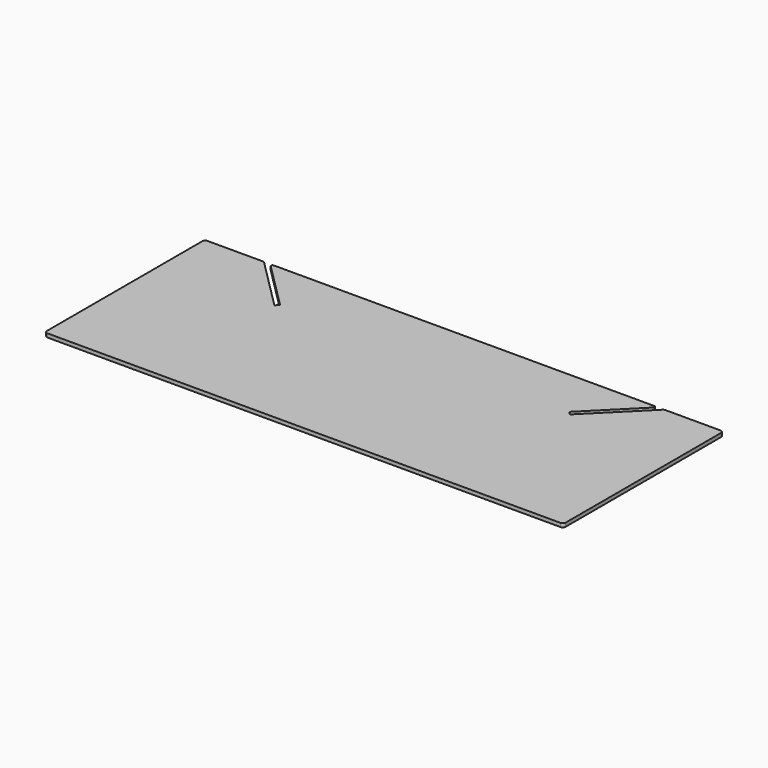
from build123d import *

# Parameters (mm, degrees)
F0_W     = 700
F0_H     = 270
F1_DEPTH = 5
F3_DEPTH = 25
F4_R     = 4
F5_R     = 2


with BuildPart() as f1:
    # F0 (on Top) → F1 (new body)
    with BuildSketch(Plane.XY):
        Rectangle(F0_W, F0_H)
    extrude(amount=F1_DEPTH)

    # F2 (on face) → F3 (cut)
    with BuildSketch(Plane.XY.offset(5)):
        Polygon((-261.5147186258, 135), (-270, 135), (-199.2893218813, 64.2893218813), (-195.0466811942, 68.5319625685), align=None)
        Polygon((270, 135), (261.5147186258, 135), (195.0466811942, 68.5319625685), (199.2893218813, 64.2893218813), align=None)
    extrude(amount=-F3_DEPTH, mode=Mode.SUBTRACT)

    # F4
    f4_edges = [f1.edges().sort_by_distance(p)[0] for p in [
        (-350, -135, 2.5),
        (350, -135, 2.5),
        (350, 135, 2.5),
        (-350, 135, 2.5),
        (-270, 135, 2.5),
        (270, 135, 2.5),
    ]]
    fillet(f4_edges, radius=F4_R)

    # F5
    f5_edges = [f1.edges().sort_by_distance(p)[0] for p in [
        (261.514719, 135, 2.5),
        (-261.514719, 135, 2.5),
    ]]
    fillet(f5_edges, radius=F5_R)


solid = f1.part
